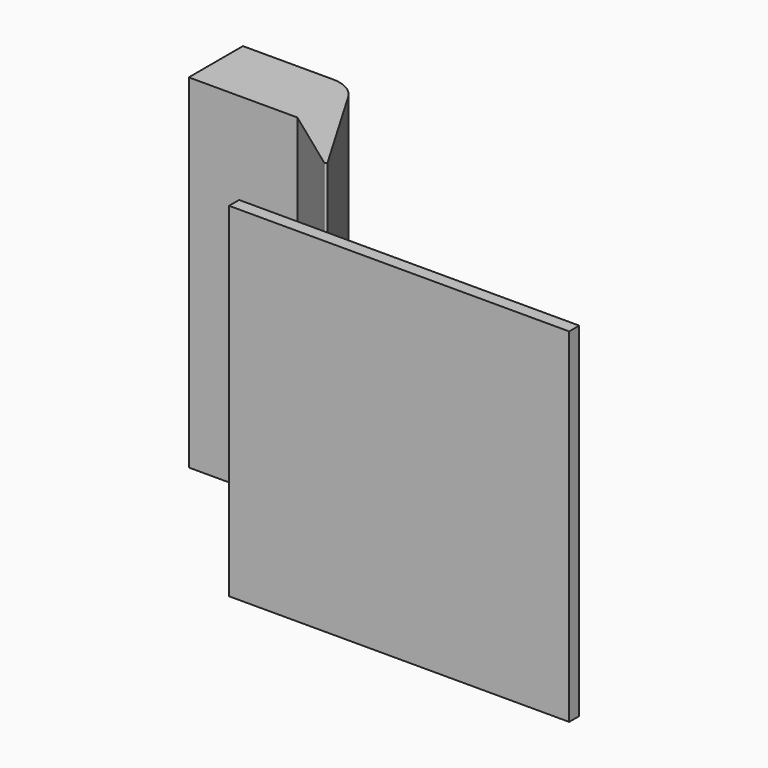
from build123d import *

# Parameters (mm, degrees)
F1_DEPTH = 100
F3_DEPTH = 1
F4_W     = 3.703487
F4_H     = 101.08342
F5_DEPTH = 100


with BuildPart() as f1:
    # F0 (on Top) → F1 (new body)
    with BuildSketch(Plane.XY):
        with BuildLine():
            Line((-15.27728, 46.063311), (-47.220681, 46.063311))
            Line((-47.220681, 46.063311), (-47.220681, 40.507939))
            Line((-47.220681, 40.507939), (-15.27728, 40.507939))
            Line((-15.27728, 40.507939), (3.514119, 26.841467))
            ThreePointArc((3.514119, 26.841467), (3.985413, 26.836768), (4.166487, 27.271915))
            Line((4.166487, 27.271915), (-12.831047, 56.244979))
            ThreePointArc((-12.831047, 56.244979), (-16.111954, 59.222238), (-20.378858, 60.414694))
            Line((-20.378858, 60.414694), (-47.220681, 60.414694))
            Line((-47.220681, 60.414694), (-47.220681, 54.859322))
            Line((-47.220681, 54.859322), (-15.27728, 54.859322))
            Line((-15.27728, 54.859322), (3.756936, 27.605788))
            Line((3.756936, 27.605788), (3.514119, 27.271915))
            Line((3.514119, 27.271915), (-15.27728, 46.063311))
        make_face()
    extrude(amount=F1_DEPTH)

    # F2 (on face) → F3 (join)
    with BuildSketch(Plane.XY.offset(100)):
        Polygon((-15.27728, 54.859322), (-47.220681, 54.859322), (-47.220681, 46.063311), (-15.27728, 46.063311), (3.514119, 27.271915), (3.756936, 27.605788), align=None)
        with BuildLine():
            Line((-20.378858, 60.414694), (-47.220681, 60.414694))
            Line((-47.220681, 60.414694), (-47.220681, 54.859322))
            Line((-47.220681, 54.859322), (-15.27728, 54.859322))
            Line((-15.27728, 54.859322), (3.756936, 27.605788))
            Line((3.756936, 27.605788), (3.514119, 27.271915))
            Line((3.514119, 27.271915), (-15.27728, 46.063311))
            Line((-15.27728, 46.063311), (-47.220681, 46.063311))
            Line((-47.220681, 46.063311), (-47.220681, 40.507939))
            Line((-47.220681, 40.507939), (-15.27728, 40.507939))
            Line((-15.27728, 40.507939), (3.514119, 26.841467))
            ThreePointArc((3.514119, 26.841467), (3.985413, 26.836768), (4.166487, 27.271915))
            Line((4.166487, 27.271915), (-12.831047, 56.244979))
            ThreePointArc((-12.831047, 56.244979), (-16.111954, 59.222238), (-20.378858, 60.414694))
        make_face()
    extrude(amount=F3_DEPTH)


with BuildPart() as f5:
    # F4 (on Right) → F5 (new body)
    with BuildSketch(Plane.YZ):
        with Locations((-1.851743, 50.54171)):
            Rectangle(F4_W, F4_H)
    extrude(amount=F5_DEPTH)


solid = Compound([f1.part, f5.part])
